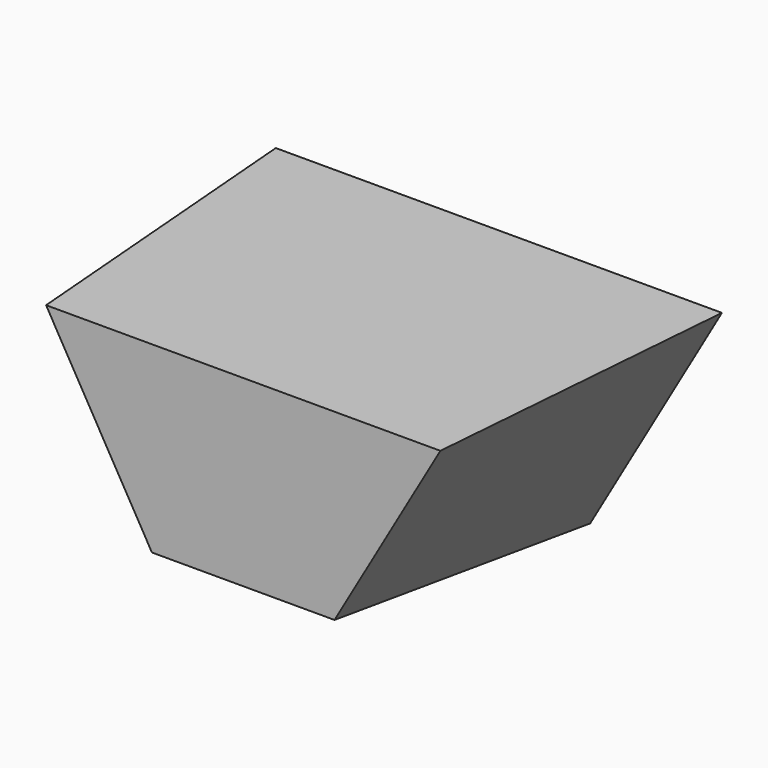
from build123d import *


with BuildPart() as f4:
    # F0 (on Front) → F4 section 0
    with BuildSketch(Plane.XZ):
        Polygon((-4886.751346, 5000), (-2000, 0), (2000, 0), (4886.751346, 5000), align=None)
    # F3 (on face) → F4 section 1
    with BuildSketch(Plane(origin=(0, -7000, 0), x_dir=(-1, 0, 0), z_dir=(0, 1, 0))):
        Polygon((4318.762325, 5000), (-4318.762325, 5000), (-2000, 983.785843), (2000, 983.785843), align=None)
    loft()


solid = f4.part
